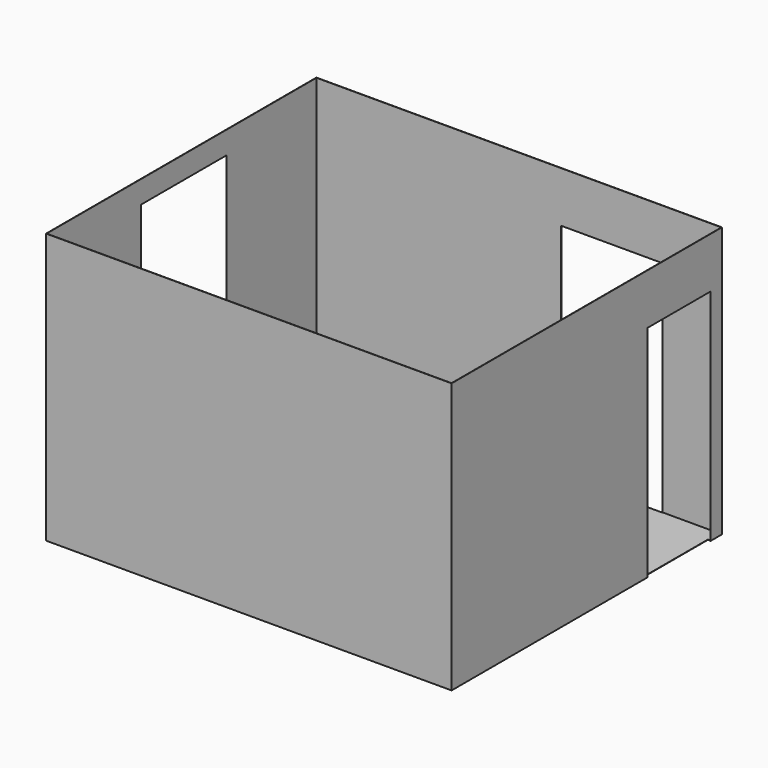
from build123d import *

# Parameters (mm, degrees)
F0_W      = 3657.6
F0_H      = 3048
F1_DEPTH  = 2438.4
F2_T      = -2.54
F3_W      = 711.2
F3_H      = 1981.2
F4_DEPTH  = 25.4
F5_W      = 965.2
F5_H      = 1524
F6_DEPTH  = 25.4
F7_W      = 304.8
F7_H      = 304.8
F8_DEPTH  = 6.35
F9_W      = 914.4
F9_H      = 1981.2
F10_DEPTH = 6.35


with BuildPart() as f1:
    # F0 (on Top) → F1 (new body)
    with BuildSketch(Plane.XY):
        with Locations((1828.8, 1524)):
            Rectangle(F0_W, F0_H)
    extrude(amount=F1_DEPTH)

    # F2
    f2_openings = [f1.faces().sort_by_distance(p)[0] for p in [
        (1828.8, 1524, 2438.4),
    ]]
    offset(amount=F2_T, openings=f2_openings)

    # F3 (on face) → F4 (cut)
    with BuildSketch(Plane.YZ.offset(3657.6)):
        with Locations((2565.4, 990.6)):
            Rectangle(F3_W, F3_H)
    extrude(amount=-F4_DEPTH, mode=Mode.SUBTRACT)

    # F5 (on face) → F6 (cut)
    with BuildSketch(Plane(origin=(0, 0, 0), x_dir=(0, -1, 0), z_dir=(-1, 0, 0))):
        with Locations((-1549.4, 1473.2)):
            Rectangle(F5_W, F5_H)
    extrude(amount=-F6_DEPTH, mode=Mode.SUBTRACT)

    # F7 (on face) → F8 (join)
    with BuildSketch(Plane.XY.offset(2.54)):
        with Locations((3477.26, 1750.06)):
            Rectangle(F7_W, F7_H)
    extrude(amount=F8_DEPTH)

    # F9 (on face) → F10 (cut)
    with BuildSketch(Plane(origin=(0, 3048, 0), x_dir=(-1, 0, 0), z_dir=(0, 1, 0))):
        with Locations((-2667, 990.6)):
            Rectangle(F9_W, F9_H)
    extrude(amount=-F10_DEPTH, mode=Mode.SUBTRACT)


solid = f1.part
